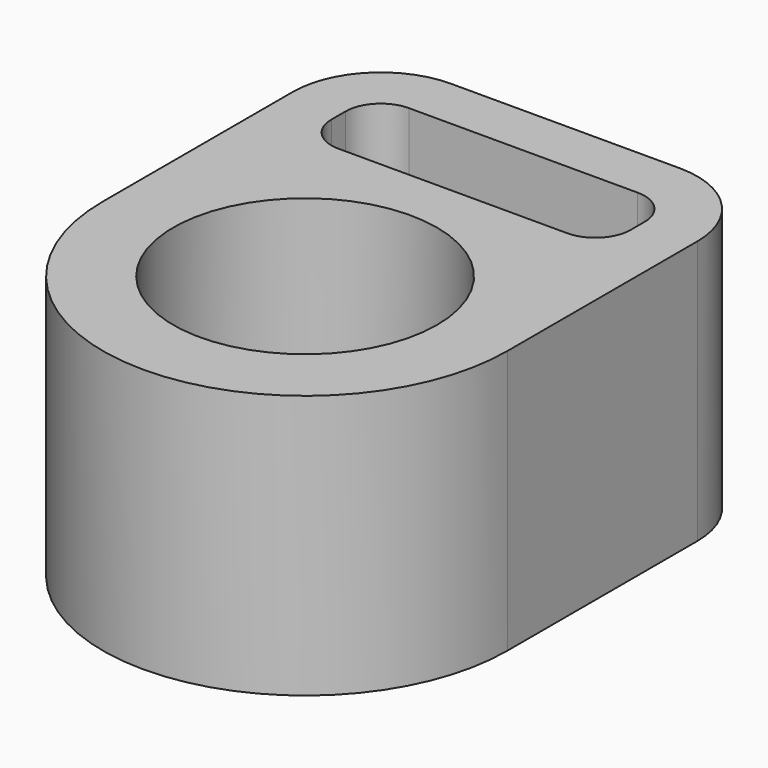
from build123d import *

# Parameters (mm, degrees)
F0_R     = 7.5
F1_DEPTH = 15


with BuildPart() as f1:
    # F0 (on Top) → F1 (new body)
    with BuildSketch(Plane.XY):
        with BuildLine():
            Line((-85.880842, 46.680803), (-98.880842, 46.680803))
            ThreePointArc((-98.880842, 46.680803), (-102.416376, 45.216337), (-103.880842, 41.680803))
            Line((-103.880842, 41.680803), (-103.880842, 40.680803))
            Line((-103.880842, 40.680803), (-103.880842, 28.180803))
            ThreePointArc((-103.880842, 28.180803), (-92.380842, 16.680803), (-80.880842, 28.180803))
            Line((-80.880842, 28.180803), (-80.880842, 40.680803))
            Line((-80.880842, 40.680803), (-80.880842, 41.680803))
            ThreePointArc((-80.880842, 41.680803), (-82.345308, 45.216337), (-85.880842, 46.680803))
        make_face()
        with Locations((-92.380842, 28.180803)):
            Circle(F0_R, mode=Mode.SUBTRACT)
        with BuildLine():
            ThreePointArc((-100.880842, 41.680803), (-100.295055, 43.095017), (-98.880842, 43.680803))
            Line((-98.880842, 43.680803), (-85.880842, 43.680803))
            ThreePointArc((-85.880842, 43.680803), (-84.466628, 43.095017), (-83.880842, 41.680803))
            Line((-83.880842, 41.680803), (-83.880842, 40.680803))
            ThreePointArc((-83.880842, 40.680803), (-84.466628, 39.266589), (-85.880842, 38.680803))
            Line((-85.880842, 38.680803), (-98.880842, 38.680803))
            ThreePointArc((-98.880842, 38.680803), (-100.295055, 39.266589), (-100.880842, 40.680803))
            Line((-100.880842, 40.680803), (-100.880842, 41.680803))
        make_face(mode=Mode.SUBTRACT)
    extrude(amount=F1_DEPTH)


solid = f1.part
